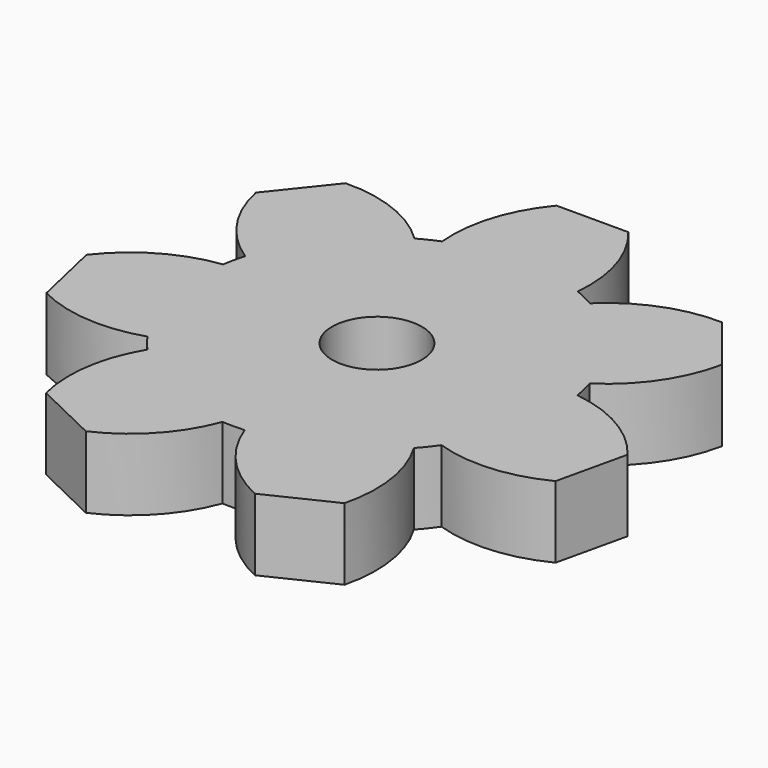
from build123d import *

# Parameters (mm, degrees)
F1_DEPTH = 4
F2_R     = 2.5
F3_DEPTH = 4.001


with BuildPart() as f1:
    # F0 (on Top) → F1 (new body)
    with BuildSketch(Plane.XY):
        with BuildLine():
            ThreePointArc((8.187836, -5.741023), (9.536204, -3.01012), (10, 0))
            ThreePointArc((10, 0), (9.966926, 0.812645), (9.867922, 1.619914))
            ThreePointArc((9.867922, 1.619914), (9.749279, 2.225209), (9.593545, 2.822039))
            ThreePointArc((9.593545, 2.822039), (7.818315, 6.234898), (4.886049, 8.725052))
            ThreePointArc((4.886049, 8.725052), (4.338837, 9.009689), (3.775119, 9.260047))
            ThreePointArc((3.775119, 9.260047), (0, 10), (-3.775119, 9.260047))
            ThreePointArc((-3.775119, 9.260047), (-4.338837, 9.009689), (-4.886049, 8.725052))
            ThreePointArc((-4.886049, 8.725052), (-7.818315, 6.234898), (-9.593545, 2.822039))
            ThreePointArc((-9.593545, 2.822039), (-9.749279, 2.225209), (-9.867922, 1.619914))
            ThreePointArc((-9.867922, 1.619914), (-9.749279, -2.225209), (-8.187836, -5.741023))
            ThreePointArc((-8.187836, -5.741023), (-7.818315, -6.234898), (-7.419048, -6.705052))
            ThreePointArc((-7.419048, -6.705052), (-4.338837, -9.009689), (-0.61652, -9.980977))
            ThreePointArc((-0.61652, -9.980977), (0, -10), (0.61652, -9.980977))
            ThreePointArc((0.61652, -9.980977), (4.338837, -9.009689), (7.419048, -6.705052))
            ThreePointArc((7.419048, -6.705052), (7.818315, -6.234898), (8.187836, -5.741023))
        make_face()
        with BuildLine():
            ThreePointArc((9.867922, 1.619914), (9.966926, 0.812645), (10, 0))
            ThreePointArc((10, 0), (9.536204, -3.01012), (8.187836, -5.741023))
            ThreePointArc((8.187836, -5.741023), (11.228694, -6.113481), (14.178877, -5.28767))
            Line((14.178877, -5.28767), (14.623919, -3.337814))
            Line((14.623919, -3.337814), (15.068961, -1.387958))
            ThreePointArc((15.068961, -1.387958), (12.769244, 0.636109), (9.867922, 1.619914))
        make_face()
        with BuildLine():
            ThreePointArc((4.886049, 8.725052), (7.818315, 6.234898), (9.593545, 2.822039))
            ThreePointArc((9.593545, 2.822039), (11.780688, 4.967253), (12.974452, 7.788684))
            Line((12.974452, 7.788684), (11.727472, 9.352347))
            Line((11.727472, 9.352347), (10.480493, 10.91601))
            ThreePointArc((10.480493, 10.91601), (7.464164, 10.380004), (4.886049, 8.725052))
        make_face()
        with BuildLine():
            ThreePointArc((8.310194, -12.646766), (8.458823, -9.58679), (7.419048, -6.705052))
            ThreePointArc((7.419048, -6.705052), (4.338837, -9.009689), (0.61652, -9.980977))
            ThreePointArc((0.61652, -9.980977), (2.221264, -12.59064), (4.706318, -14.3823))
            Line((4.706318, -14.3823), (6.508256, -13.514533))
            Line((6.508256, -13.514533), (8.310194, -12.646766))
        make_face()
        with BuildLine():
            ThreePointArc((-3.775119, 9.260047), (0, 10), (3.775119, 9.260047))
            ThreePointArc((3.775119, 9.260047), (3.461584, 12.307545), (2, 15))
            Line((2, 15), (0, 15))
            Line((0, 15), (-2, 15))
            ThreePointArc((-2, 15), (-3.461584, 12.307545), (-3.775119, 9.260047))
        make_face()
        with BuildLine():
            ThreePointArc((-4.706318, -14.3823), (-2.221264, -12.59064), (-0.61652, -9.980977))
            ThreePointArc((-0.61652, -9.980977), (-4.338837, -9.009689), (-7.419048, -6.705052))
            ThreePointArc((-7.419048, -6.705052), (-8.458823, -9.58679), (-8.310194, -12.646766))
            Line((-8.310194, -12.646766), (-6.508256, -13.514533))
            Line((-6.508256, -13.514533), (-4.706318, -14.3823))
        make_face()
        with BuildLine():
            ThreePointArc((-9.593545, 2.822039), (-7.818315, 6.234898), (-4.886049, 8.725052))
            ThreePointArc((-4.886049, 8.725052), (-7.464164, 10.380004), (-10.480493, 10.91601))
            Line((-10.480493, 10.91601), (-11.727472, 9.352347))
            Line((-11.727472, 9.352347), (-12.974452, 7.788684))
            ThreePointArc((-12.974452, 7.788684), (-11.780688, 4.967253), (-9.593545, 2.822039))
        make_face()
        with BuildLine():
            ThreePointArc((-14.178877, -5.28767), (-11.228694, -6.113481), (-8.187836, -5.741023))
            ThreePointArc((-8.187836, -5.741023), (-9.749279, -2.225209), (-9.867922, 1.619914))
            ThreePointArc((-9.867922, 1.619914), (-12.769244, 0.636109), (-15.068961, -1.387958))
            Line((-15.068961, -1.387958), (-14.623919, -3.337814))
            Line((-14.623919, -3.337814), (-14.178877, -5.28767))
        make_face()
    extrude(amount=F1_DEPTH)

    # F2 (on face) → F3 (cut, through all)
    with BuildSketch(Plane.XY.offset(4)):
        Circle(F2_R)
    extrude(amount=-F3_DEPTH, mode=Mode.SUBTRACT)


solid = f1.part
